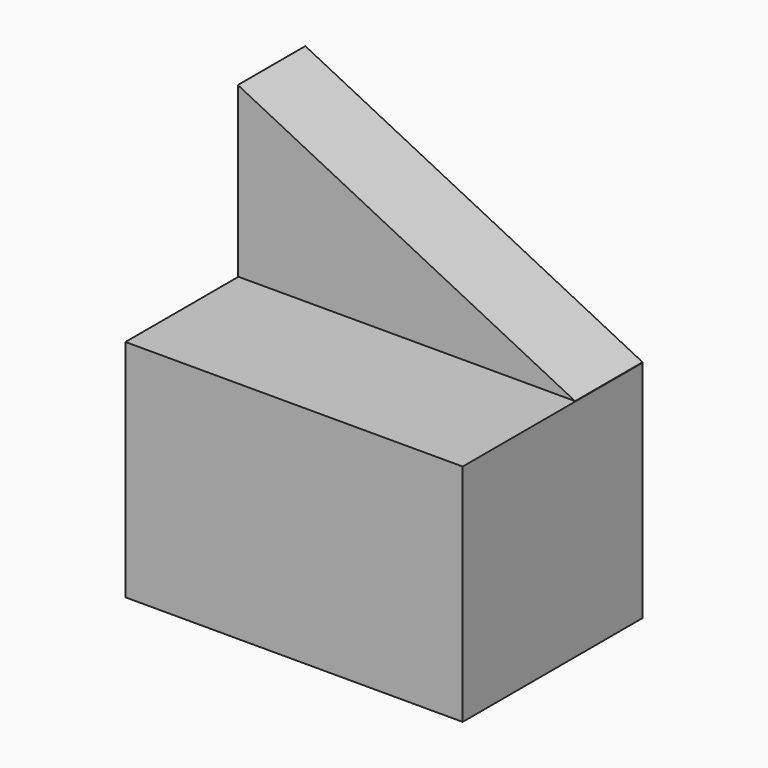
from build123d import *

# Parameters (mm, degrees)
F0_W     = 60
F0_H     = 40
F1_DEPTH = 40
F4_DEPTH = 15


with BuildPart() as f1:
    # F0 (on Front) → F1 (new body)
    with BuildSketch(Plane.XZ):
        with Locations((30, 20)):
            Rectangle(F0_W, F0_H)
    extrude(amount=F1_DEPTH)


with BuildPart() as f4:
    # F3 (on Front) → F4 (new body)
    with BuildSketch(Plane.XZ):
        Polygon((0, 70.083185), (0, 40.083185), (60, 40.083185), align=None)
    extrude(amount=F4_DEPTH)


solid = Compound([f1.part, f4.part])
